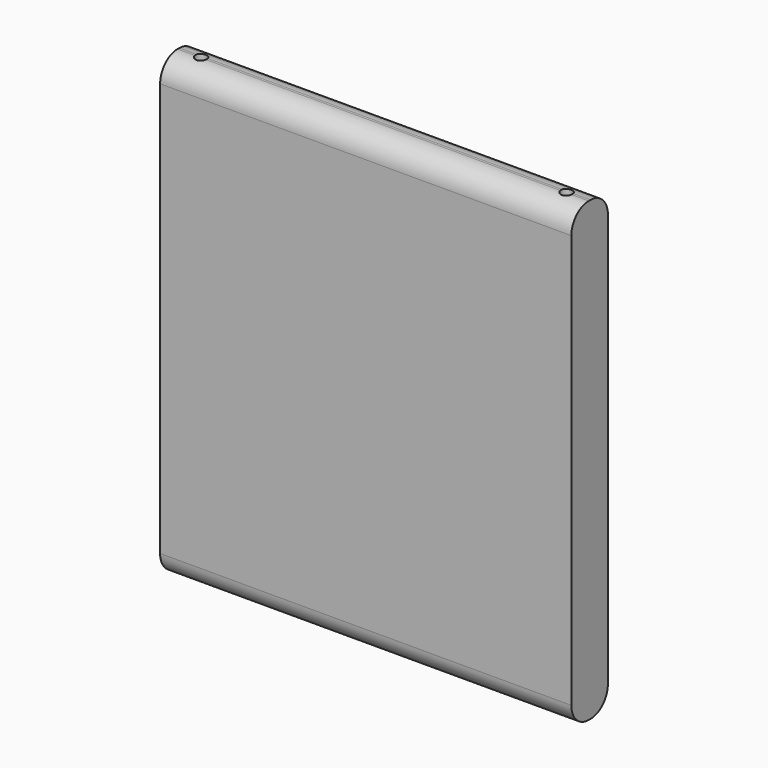
from build123d import *

# Parameters (mm, degrees)
F1_DEPTH = 914.4
F3_D     = 25.4
F3_DEPTH = 101.6
F3_TIP   = 7.6309298617
F4_D     = 25.4
F4_DEPTH = 304.8
F4_TIP   = 7.6309298617


with BuildPart() as f1:
    # F0 (on Right) → F1 (new body)
    with BuildSketch(Plane.YZ):
        with BuildLine():
            Line((6.3090295458, 1012.4358065891), (1.2290295458, 1012.4358065891))
            ThreePointArc((1.2290295458, 1012.4358065891), (-32.8959437143, 998.3007798492), (-47.0309704542, 964.1758065891))
            Line((-47.0309704542, 964.1758065891), (-47.0309704542, 44.6958065891))
            ThreePointArc((-47.0309704542, 44.6958065891), (-32.8959437143, 10.5708333291), (1.2290295458, -3.5641934109))
            Line((1.2290295458, -3.5641934109), (6.3090295458, -3.5641934109))
            ThreePointArc((6.3090295458, -3.5641934109), (40.4340028058, 10.5708333291), (54.5690295458, 44.6958065891))
            Line((54.5690295458, 44.6958065891), (54.5690295458, 964.1758065891))
            ThreePointArc((54.5690295458, 964.1758065891), (40.4340028058, 998.3007798492), (6.3090295458, 1012.4358065891))
        make_face()
    extrude(amount=F1_DEPTH)

    # F3
    with Locations(Plane.XY.offset(1012.4358065891)):
        with Locations((50.8, 3.7690295458)):
            Hole(F3_D / 2, depth=F3_DEPTH)
            with Locations((0, 0, -(F3_DEPTH + F3_TIP / 2))):  # 118° drill point
                Cone(0, F3_D / 2, F3_TIP, mode=Mode.SUBTRACT)

    # F4
    with Locations(Plane.XY.offset(1012.4358065891)):
        with Locations((863.6, 3.7690295458)):
            Hole(F4_D / 2, depth=F4_DEPTH)
            with Locations((0, 0, -(F4_DEPTH + F4_TIP / 2))):  # 118° drill point
                Cone(0, F4_D / 2, F4_TIP, mode=Mode.SUBTRACT)


solid = f1.part
